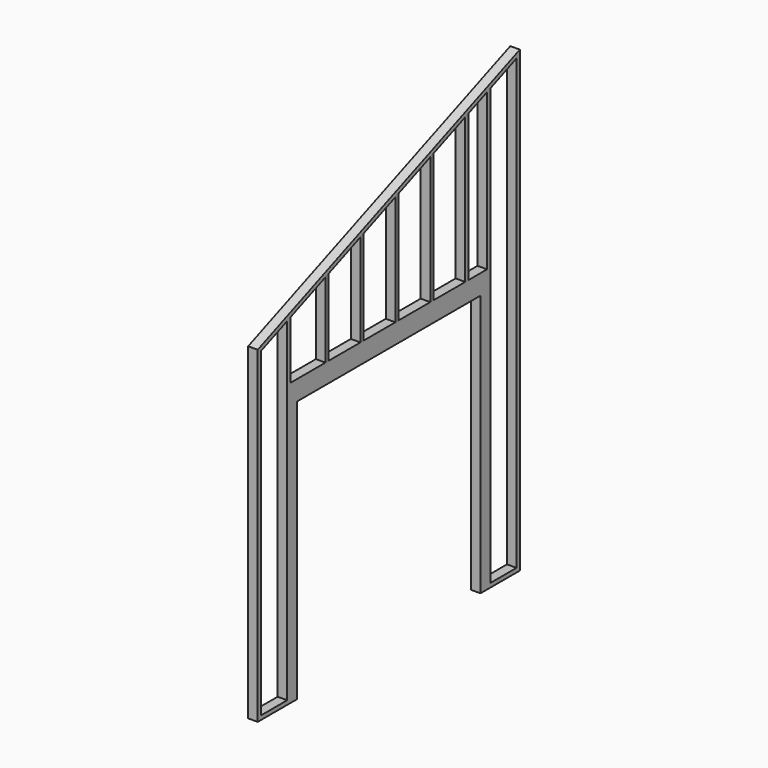
from build123d import *

# Parameters (mm, degrees)
F1_DEPTH  = 88.9
F2_W      = 2133.6
F2_H      = 2438.4
F3_DEPTH  = 88.901
F4_W      = 304.8
F4_H      = 2438.4
F5_DEPTH  = 88.901
F7_DEPTH  = 88.901
F9_DEPTH  = 88.901
F11_DEPTH = 88.9
F12_W     = 304.8
F12_H     = 38.1
F13_DEPTH = 88.9
F14_SCALE = 0.0114810563


with BuildPart() as f1:
    # F0 (on Right) → F1 (new body)
    with BuildSketch(Plane.YZ):
        Polygon((0, 3048), (0, 0), (3048, 0), (3048, 4267.2), align=None)
    extrude(amount=F1_DEPTH)

    # F2 (on face) → F3 (cut, through all)
    with BuildSketch(Plane.YZ.offset(88.9)):
        with Locations((1524, 1219.2)):
            Rectangle(F2_W, F2_H)
    extrude(amount=-F3_DEPTH, mode=Mode.SUBTRACT)

    # F4 (on face) → F5 (cut, through all)
    with BuildSketch(Plane.YZ.offset(88.9)):
        with Locations((190.5, 1219.2)):
            Rectangle(F4_W, F4_H)
        with Locations((2857.5, 1219.2)):
            Rectangle(F4_W, F4_H)
    extrude(amount=-F5_DEPTH, mode=Mode.SUBTRACT)

    # F6 (on face) → F7 (cut, through all)
    with BuildSketch(Plane.YZ.offset(88.9)):
        Polygon((381, 3159.3650441696), (381, 2622.55), (2667, 2622.55), (2667, 4073.7650441696), align=None)
    extrude(amount=-F7_DEPTH, mode=Mode.SUBTRACT)

    # F8 (on face) → F9 (cut, through all)
    with BuildSketch(Plane.YZ.offset(88.9)):
        Polygon((38.1, 3022.2050441696), (38.1, 2438.4), (342.9, 2438.4), (342.9, 3144.1250441696), align=None)
        Polygon((2705.1, 2438.4), (3009.9, 2438.4), (3009.9, 4210.9250441696), (2705.1, 4089.0050441696), align=None)
    extrude(amount=-F9_DEPTH, mode=Mode.SUBTRACT)

    # F12 (on face) → F13 (join)
    with BuildSketch(Plane.YZ.offset(88.9)):
        with Locations((190.5, 19.05)):
            Rectangle(F12_W, F12_H)
        with Locations((2857.5, 19.05)):
            Rectangle(F12_W, F12_H)
    extrude(amount=-F13_DEPTH)


with BuildPart() as f11:
    # F10 (on face) → F11 (new body)
    with BuildSketch(Plane.YZ.offset(88.9)):
        Polygon((825.5, 3337.1650441696), (787.4, 3321.9250441696), (787.4, 2622.55), (825.5, 2622.55), align=None)
    extrude(amount=-F11_DEPTH)


with BuildPart() as f11b:
    # F10 (on face) → F11, piece 2 (new body)
    with BuildSketch(Plane.YZ.offset(88.9)):
        Polygon((1231.9, 3499.7250441696), (1193.8, 3484.4850441696), (1193.8, 2622.55), (1231.9, 2622.55), align=None)
    extrude(amount=-F11_DEPTH)


with BuildPart() as f11c:
    # F10 (on face) → F11, piece 3 (new body)
    with BuildSketch(Plane.YZ.offset(88.9)):
        Polygon((1638.3, 3662.2850441696), (1600.2, 3647.0450441696), (1600.2, 2622.55), (1638.3, 2622.55), align=None)
    extrude(amount=-F11_DEPTH)


with BuildPart() as f11d:
    # F10 (on face) → F11, piece 4 (new body)
    with BuildSketch(Plane.YZ.offset(88.9)):
        Polygon((2044.7, 3824.8450441696), (2006.6, 3809.6050441696), (2006.6, 2622.55), (2044.7, 2622.55), align=None)
    extrude(amount=-F11_DEPTH)


with BuildPart() as f11e:
    # F10 (on face) → F11, piece 5 (new body)
    with BuildSketch(Plane.YZ.offset(88.9)):
        Polygon((2451.1, 3987.4050441696), (2413, 3972.1650441696), (2413, 2622.55), (2451.1, 2622.55), align=None)
    extrude(amount=-F11_DEPTH)


with BuildPart() as f11e_1:
    # F14: moved
    add(f11e.part.scale(F14_SCALE))


with BuildPart() as f11c_1:
    # F14: moved
    add(f11c.part.scale(F14_SCALE))


with BuildPart() as f11_1:
    # F14: moved
    add(f11.part.scale(F14_SCALE))


with BuildPart() as f1_1:
    # F14: moved
    add(f1.part.scale(F14_SCALE))


with BuildPart() as f11b_1:
    # F14: moved
    add(f11b.part.scale(F14_SCALE))


with BuildPart() as f11d_1:
    # F14: moved
    add(f11d.part.scale(F14_SCALE))


solid = Compound([f11e_1.part, f11c_1.part, f11_1.part, f1_1.part, f11b_1.part, f11d_1.part])
